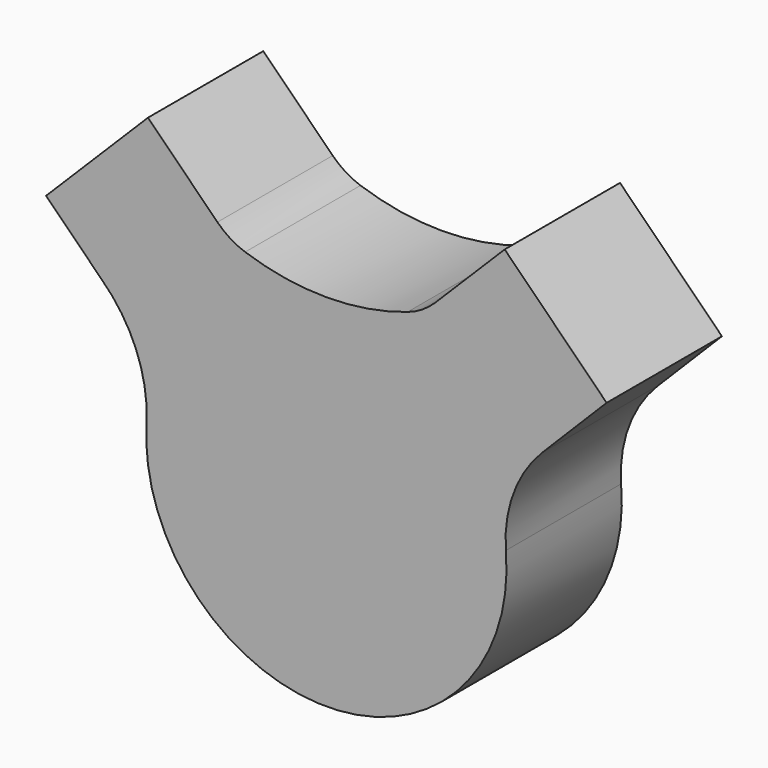
from build123d import *

# Parameters (mm, degrees)
F1_DEPTH = 5


with BuildPart() as f1:
    # F0 (on Front) → F1 (new body, symmetric)
    with BuildSketch(Plane.XZ):
        with BuildLine():
            ThreePointArc((-12.4584198503, -5.4882363506), (0.1051261875, -18.8805380191), (12.4626621523, -5.2979116934))
            ThreePointArc((12.4626621523, -5.2979116934), (12.9937933526, -1.6185498366), (14.9984520469, 1.5121286114))
            Line((14.9984520469, 1.5121286114), (19.4551017733, 5.993466135))
            Line((19.4551017733, 5.993466135), (15.9195678673, 9.529000041))
            Line((15.9195678673, 9.529000041), (12.3840339614, 13.0645339469))
            Line((12.3840339614, 13.0645339469), (7.5681059936, 8.2486059791))
            ThreePointArc((7.5681059936, 8.2486059791), (6.6737926231, 7.5386771207), (5.6417348065, 7.0501568533))
            ThreePointArc((5.6417348065, 7.0501568533), (0.0096652906, 6.1190974643), (-5.6224042252, 7.0501568533))
            ThreePointArc((-5.6224042252, 7.0501568533), (-6.6544620419, 7.5386771207), (-7.5487754123, 8.2486059791))
            Line((-7.5487754123, 8.2486059791), (-12.3647033801, 13.0645339469))
            Line((-12.3647033801, 13.0645339469), (-15.9002372861, 9.529000041))
            Line((-15.9002372861, 9.529000041), (-19.435771192, 5.993466135))
            Line((-19.435771192, 5.993466135), (-15.5718158528, 2.1295107958))
            ThreePointArc((-15.5718158528, 2.1295107958), (-13.1954997116, -1.3443823965), (-12.4584198503, -5.4882363506))
        make_face()
    extrude(amount=F1_DEPTH, both=True)


solid = f1.part
